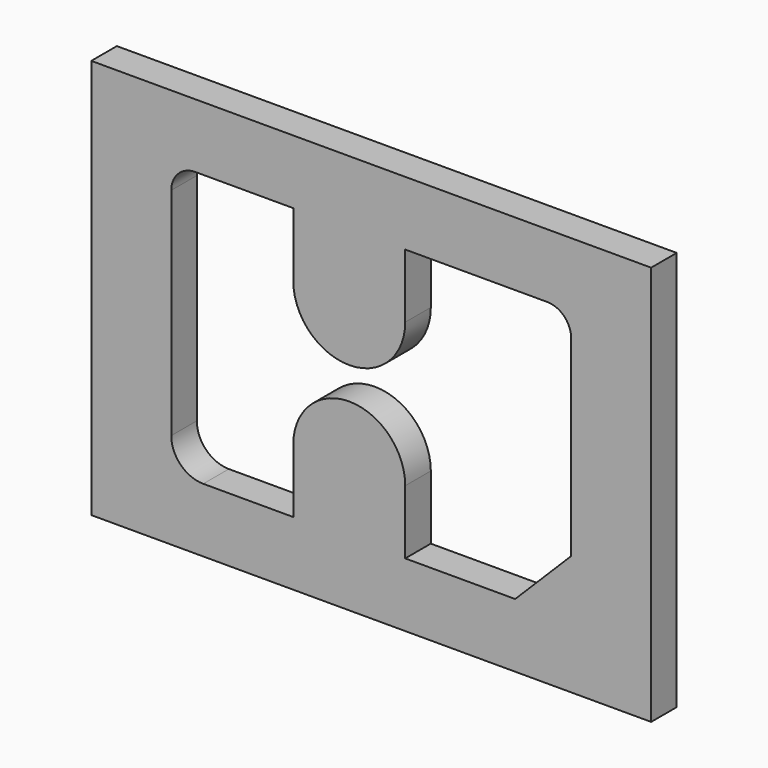
from build123d import *

# Parameters (mm, degrees)
F0_W     = 70
F0_H     = 50
F1_DEPTH = 4


with BuildPart() as f1:
    # F0 (on Front) → F1 (new body)
    with BuildSketch(Plane.XZ):
        with Locations((35, -25)):
            Rectangle(F0_W, F0_H)
        with BuildLine():
            ThreePointArc((10, -11), (10.87868, -8.87868), (13, -8))
            Line((13, -8), (25.253979, -8))
            Line((25.253979, -8), (25.253979, -16))
            ThreePointArc((25.253979, -16), (32.253979, -23), (39.253979, -16))
            Line((39.253979, -16), (39.253979, -8))
            Line((39.253979, -8), (57, -8))
            ThreePointArc((57, -8), (59.12132, -8.87868), (60, -11))
            Line((60, -11), (60, -35))
            Line((60, -35), (53, -42))
            Line((53, -42), (39.253979, -42))
            Line((39.253979, -42), (39.253979, -34))
            ThreePointArc((39.253979, -34), (32.253979, -27), (25.253979, -34))
            Line((25.253979, -34), (25.253979, -42))
            Line((25.253979, -42), (14, -42))
            ThreePointArc((14, -42), (11.171573, -40.828427), (10, -38))
            Line((10, -38), (10, -11))
        make_face(mode=Mode.SUBTRACT)
    extrude(amount=-F1_DEPTH)


solid = f1.part
